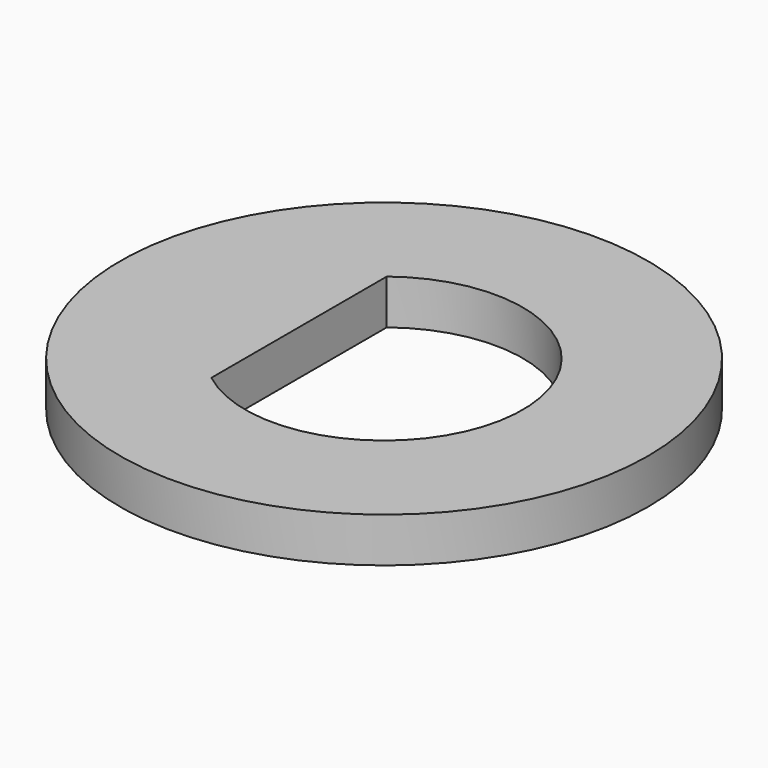
from build123d import *

# Parameters (mm, degrees)
F0_R     = 7.493
F1_DEPTH = 1.27


with BuildPart() as f1:
    # F0 (on Top) → F1 (new body)
    with BuildSketch(Plane.XY):
        Circle(F0_R)
        with BuildLine():
            ThreePointArc((-2.413, 3.110852), (3.937, 0), (-2.413, -3.110852))
            Line((-2.413, -3.110852), (-2.413, 3.110852))
        make_face(mode=Mode.SUBTRACT)
    extrude(amount=F1_DEPTH)


solid = f1.part
